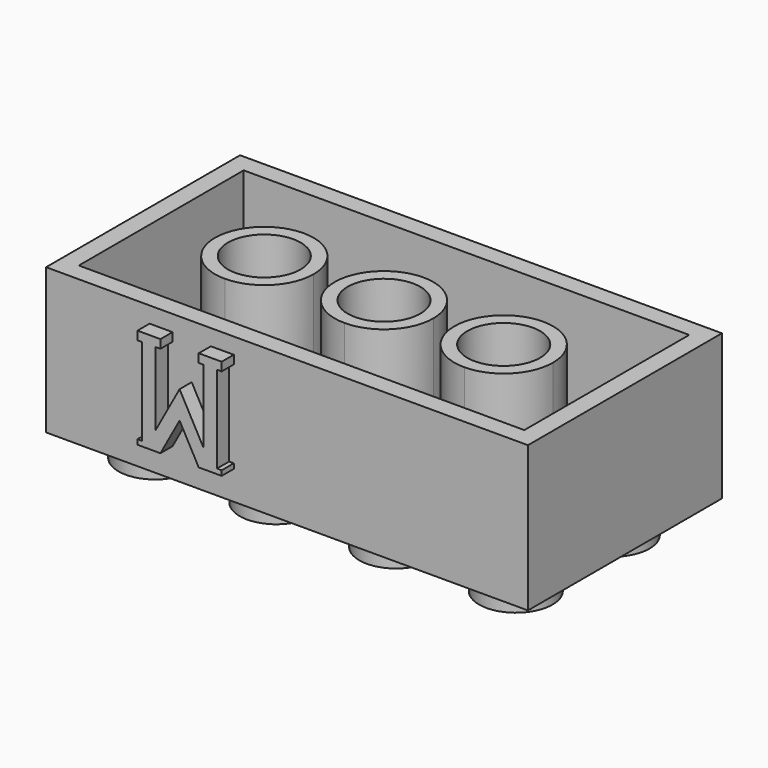
from build123d import *

# Parameters (mm, degrees)
F0_W       = 31.8
F0_H       = 9.6
F1_DEPTH   = 16
F3_DEPTH   = 1.8
F5_T       = -1.2
F6_DEPTH   = 8.4
F7_D       = 4.8
F7_DEPTH   = 8
F7_TIP     = 1.4420654857
F7_2_D     = 4.8
F7_2_DEPTH = 8
F7_2_TIP   = 1.4420654857
F8_D       = 4.8
F8_DEPTH   = 8
F8_TIP     = 1.4420654857
F8_2_D     = 4.8
F8_2_DEPTH = 8
F8_2_TIP   = 1.4420654857
F9_D       = 4.8
F9_DEPTH   = 8
F9_TIP     = 1.4420654857
F9_2_D     = 4.8
F9_2_DEPTH = 8
F9_2_TIP   = 1.4420654857
F11_DEPTH  = 1


with BuildPart() as f1:
    # F0 (on Front) → F1 (new body)
    with BuildSketch(Plane.XZ):
        with Locations((6.290115416, 0.2223112665)):
            Rectangle(F0_W, F0_H)
    extrude(amount=F1_DEPTH)

    # F2 (on face) → F3 (join)
    with BuildSketch(Plane(origin=(0, 0, -4.5776887335), x_dir=(1, 0, 0), z_dir=(0, 0, -1))):
        with BuildLine():
            ThreePointArc((20.615115416, 4), (18.190115416, 6.425), (15.765115416, 4))
            ThreePointArc((15.765115416, 4), (18.190115416, 1.575), (20.615115416, 4))
        make_face()
        with BuildLine():
            ThreePointArc((12.715115416, 4), (10.290115416, 6.425), (7.865115416, 4))
            ThreePointArc((7.865115416, 4), (10.290115416, 1.575), (12.715115416, 4))
        make_face()
        with BuildLine():
            ThreePointArc((-0.034884584, 4), (2.390115416, 1.575), (4.815115416, 4))
            ThreePointArc((4.815115416, 4), (2.390115416, 6.425), (-0.034884584, 4))
        make_face()
        with BuildLine():
            ThreePointArc((-8.034884584, 4), (-5.609884584, 1.575), (-3.184884584, 4))
            ThreePointArc((-3.184884584, 4), (-5.609884584, 6.425), (-8.034884584, 4))
        make_face()
        with BuildLine():
            ThreePointArc((-8.034884584, 12), (-5.609884584, 9.575), (-3.184884584, 12))
            ThreePointArc((-3.184884584, 12), (-5.609884584, 14.425), (-8.034884584, 12))
        make_face()
        with BuildLine():
            ThreePointArc((-0.034884584, 12), (2.390115416, 9.575), (4.815115416, 12))
            ThreePointArc((4.815115416, 12), (2.390115416, 14.425), (-0.034884584, 12))
        make_face()
        with BuildLine():
            ThreePointArc((12.715115416, 12), (10.290115416, 14.425), (7.865115416, 12))
            ThreePointArc((7.865115416, 12), (10.290115416, 9.575), (12.715115416, 12))
        make_face()
        with BuildLine():
            ThreePointArc((20.615115416, 12), (18.190115416, 14.425), (15.765115416, 12))
            ThreePointArc((15.765115416, 12), (18.190115416, 9.575), (20.615115416, 12))
        make_face()
    extrude(amount=F3_DEPTH)

    # F5
    f5_openings = [f1.faces().sort_by_distance(p)[0] for p in [
        (6.290115, -8, 5.022311),
    ]]
    offset(amount=F5_T, openings=f5_openings, kind=Kind.INTERSECTION)

    # F7
    with Locations(Plane.XY.offset(5.0223112665)):
        with Locations((14.190115416, -8)):
            Hole(F7_D / 2, depth=F7_DEPTH)
            with Locations((0, 0, -(F7_DEPTH + F7_TIP / 2))):  # 118° drill point
                Cone(0, F7_D / 2, F7_TIP, mode=Mode.SUBTRACT)

    # F8
    with Locations(Plane.XY.offset(5.0223112665)):
        with Locations((6.290115416, -8)):
            Hole(F8_D / 2, depth=F8_DEPTH)
            with Locations((0, 0, -(F8_DEPTH + F8_TIP / 2))):  # 118° drill point
                Cone(0, F8_D / 2, F8_TIP, mode=Mode.SUBTRACT)

    # F9
    with Locations(Plane.XY.offset(5.0223112665)):
        with Locations((-1.609884584, -8)):
            Hole(F9_D / 2, depth=F9_DEPTH)
            with Locations((0, 0, -(F9_DEPTH + F9_TIP / 2))):  # 118° drill point
                Cone(0, F9_D / 2, F9_TIP, mode=Mode.SUBTRACT)

    # F10 (on face) → F11 (join)
    with BuildSketch(Plane.XZ.offset(16)):
        Polygon((2.7775790172, 3.9643859491), (1.2625969494, 3.9643859491), (1.2625969494, 3.4013746772), (1.5722530907, 3.4013746772), (1.5722530907, -1.4128037233), (0, 1.4679678955), (-1.5739990043, -1.4118501604), (-1.5739990043, 3.4013746772), (-1.2639990043, 3.4013746772), (-1.2639990043, 3.9643859491), (-2.7789810721, 3.9643859491), (-2.7789810721, 3.4013746772), (-2.4689810721, 3.4013746772), (-2.4689810721, -2.3413395975), (-2.7789810721, -2.3413395975), (-2.7789810721, -2.6662578203), (-1.2639990043, -2.6662578203), (0, -0.35362157), (1.2625969494, -2.6670235784), (2.7775790172, -2.6670235784), (2.7775790172, -2.3413395975), (2.4679228758, -2.3413395975), (2.4679228758, 3.4013746772), (2.7775790172, 3.4013746772), align=None)
    extrude(amount=F11_DEPTH)


with BuildPart() as f6:
    # F4 (on face) → F6 (new body)
    with BuildSketch(Plane.XY.offset(5.0223112665)):
        with BuildLine():
            ThreePointArc((17.445115416, -8), (16.4917479888, -5.6983674272), (14.190115416, -4.745))
            Line((14.190115416, -4.745), (14.190115416, -8))
            Line((14.190115416, -8), (17.445115416, -8))
        make_face()
        with BuildLine():
            Line((17.445115416, -8), (14.190115416, -8))
            Line((14.190115416, -8), (14.190115416, -11.255))
            ThreePointArc((14.190115416, -11.255), (16.4917479888, -10.3016325728), (17.445115416, -8))
        make_face()
        with BuildLine():
            Line((14.190115416, -8), (10.935115416, -8))
            ThreePointArc((10.935115416, -8), (11.8884828433, -10.3016325728), (14.190115416, -11.255))
            Line((14.190115416, -11.255), (14.190115416, -8))
        make_face()
        with BuildLine():
            Line((14.190115416, -8), (14.190115416, -4.745))
            ThreePointArc((14.190115416, -4.745), (11.8884828433, -5.6983674272), (10.935115416, -8))
            Line((10.935115416, -8), (14.190115416, -8))
        make_face()
    extrude(amount=-F6_DEPTH)

    # F7#2
    with Locations(Plane.XY.offset(5.0223112665)):
        with Locations((14.190115416, -8)):
            Hole(F7_2_D / 2, depth=F7_2_DEPTH)
            with Locations((0, 0, -(F7_2_DEPTH + F7_2_TIP / 2))):  # 118° drill point
                Cone(0, F7_2_D / 2, F7_2_TIP, mode=Mode.SUBTRACT)


with BuildPart() as f6b:
    # F4 (on face) → F6, piece 2 (new body)
    with BuildSketch(Plane.XY.offset(5.0223112665)):
        with BuildLine():
            Line((9.545115416, -8), (6.290115416, -8))
            Line((6.290115416, -8), (6.290115416, -11.255))
            ThreePointArc((6.290115416, -11.255), (8.5917479888, -10.3016325728), (9.545115416, -8))
        make_face()
        with BuildLine():
            Line((6.290115416, -11.255), (6.290115416, -8))
            Line((6.290115416, -8), (3.035115416, -8))
            ThreePointArc((3.035115416, -8), (3.9884828433, -10.3016325728), (6.290115416, -11.255))
        make_face()
        with BuildLine():
            Line((6.290115416, -8), (6.290115416, -4.745))
            ThreePointArc((6.290115416, -4.745), (3.9884828433, -5.6983674272), (3.035115416, -8))
            Line((3.035115416, -8), (6.290115416, -8))
        make_face()
        with BuildLine():
            ThreePointArc((9.545115416, -8), (8.5917479888, -5.6983674272), (6.290115416, -4.745))
            Line((6.290115416, -4.745), (6.290115416, -8))
            Line((6.290115416, -8), (9.545115416, -8))
        make_face()
    extrude(amount=-F6_DEPTH)

    # F8#2
    with Locations(Plane.XY.offset(5.0223112665)):
        with Locations((6.290115416, -8)):
            Hole(F8_2_D / 2, depth=F8_2_DEPTH)
            with Locations((0, 0, -(F8_2_DEPTH + F8_2_TIP / 2))):  # 118° drill point
                Cone(0, F8_2_D / 2, F8_2_TIP, mode=Mode.SUBTRACT)


with BuildPart() as f6c:
    # F4 (on face) → F6, piece 3 (new body)
    with BuildSketch(Plane.XY.offset(5.0223112665)):
        with BuildLine():
            ThreePointArc((-1.609884584, -11.255), (0.6917479888, -10.3016325728), (1.645115416, -8))
            Line((1.645115416, -8), (-1.609884584, -8))
            Line((-1.609884584, -8), (-1.609884584, -11.255))
        make_face()
        with BuildLine():
            Line((-1.609884584, -11.255), (-1.609884584, -8))
            Line((-1.609884584, -8), (-4.864884584, -8))
            ThreePointArc((-4.864884584, -8), (-3.9115171567, -10.3016325728), (-1.609884584, -11.255))
        make_face()
        with BuildLine():
            Line((-1.609884584, -8), (-1.609884584, -4.745))
            ThreePointArc((-1.609884584, -4.745), (-3.9115171567, -5.6983674272), (-4.864884584, -8))
            Line((-4.864884584, -8), (-1.609884584, -8))
        make_face()
        with BuildLine():
            ThreePointArc((1.645115416, -8), (0.6917479888, -5.6983674272), (-1.609884584, -4.745))
            Line((-1.609884584, -4.745), (-1.609884584, -8))
            Line((-1.609884584, -8), (1.645115416, -8))
        make_face()
    extrude(amount=-F6_DEPTH)

    # F9#2
    with Locations(Plane.XY.offset(5.0223112665)):
        with Locations((-1.609884584, -8)):
            Hole(F9_2_D / 2, depth=F9_2_DEPTH)
            with Locations((0, 0, -(F9_2_DEPTH + F9_2_TIP / 2))):  # 118° drill point
                Cone(0, F9_2_D / 2, F9_2_TIP, mode=Mode.SUBTRACT)


solid = Compound([f1.part, f6.part, f6b.part, f6c.part])
